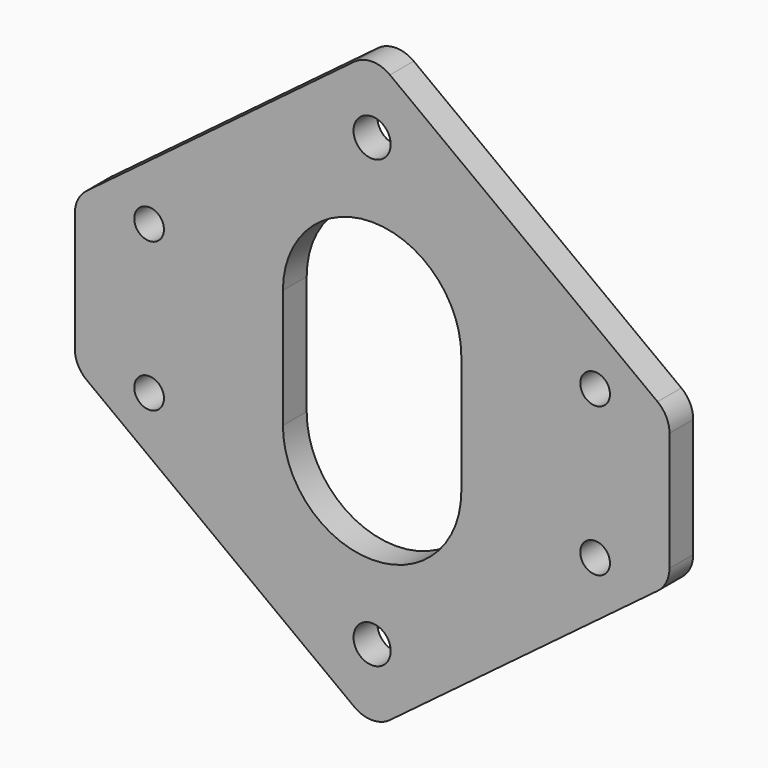
from build123d import *

# Parameters (mm, degrees)
F0_R     = 12.7
F0_R_2   = 15.875
F1_DEPTH = 12.7


with BuildPart() as f1:
    # F0 (on Front) → F1 (new body, symmetric)
    with BuildSketch(Plane.XZ):
        with BuildLine():
            Line((254, -50.8), (254, 50.8))
            ThreePointArc((254, 50.8), (251.318451, 62.159225), (243.84, 71.12))
            Line((243.84, 71.12), (15.24, 242.57))
            ThreePointArc((15.24, 242.57), (0, 247.65), (-15.24, 242.57))
            Line((-15.24, 242.57), (-243.84, 71.12))
            ThreePointArc((-243.84, 71.12), (-251.318451, 62.159225), (-254, 50.8))
            Line((-254, 50.8), (-254, -50.8))
            ThreePointArc((-254, -50.8), (-251.318451, -62.159225), (-243.84, -71.12))
            Line((-243.84, -71.12), (-15.24, -242.57))
            ThreePointArc((-15.24, -242.57), (0, -247.65), (15.24, -242.57))
            Line((15.24, -242.57), (243.84, -71.12))
            ThreePointArc((243.84, -71.12), (251.318451, -62.159225), (254, -50.8))
        make_face()
        with Locations((-190.5, -63.5)):
            Circle(F0_R, mode=Mode.SUBTRACT)
        with Locations((0, -190.5)):
            Circle(F0_R_2, mode=Mode.SUBTRACT)
        with Locations((190.5, -63.5)):
            Circle(F0_R, mode=Mode.SUBTRACT)
        with Locations((-190.5, 63.5)):
            Circle(F0_R, mode=Mode.SUBTRACT)
        with BuildLine():
            ThreePointArc((-76.2, 50.8), (0, 127), (76.2, 50.8))
            Line((76.2, 50.8), (76.2, -50.8))
            ThreePointArc((76.2, -50.8), (0, -127), (-76.2, -50.8))
            Line((-76.2, -50.8), (-76.2, 50.8))
        make_face(mode=Mode.SUBTRACT)
        with Locations((190.5, 63.5)):
            Circle(F0_R, mode=Mode.SUBTRACT)
        with Locations((0, 190.5)):
            Circle(F0_R_2, mode=Mode.SUBTRACT)
    extrude(amount=F1_DEPTH, both=True)


solid = f1.part
